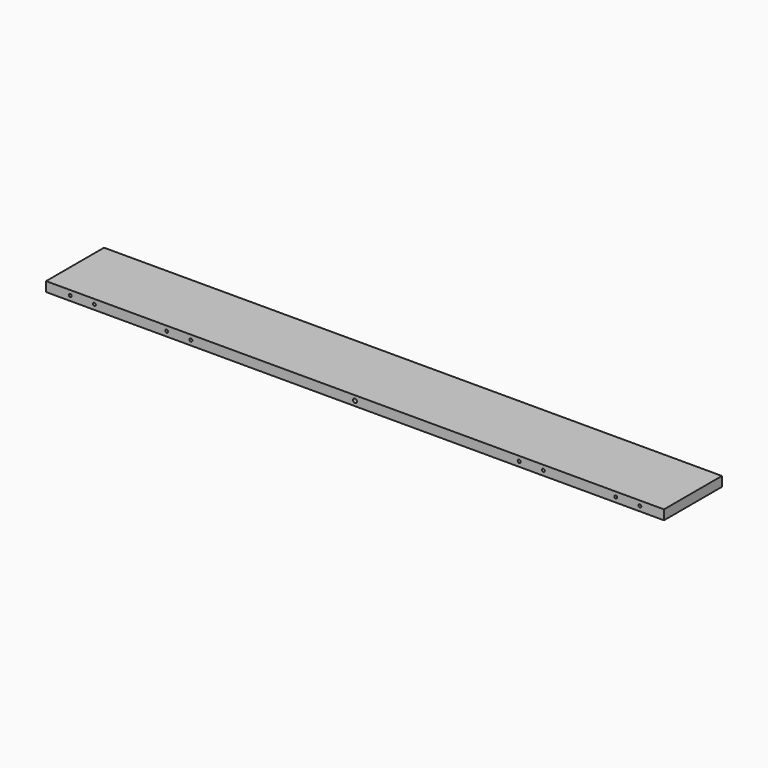
from build123d import *

# Parameters (mm, degrees)
F0_W     = 1280
F0_H     = 150
F1_DEPTH = 10
F3_D     = 6
F3_DEPTH = 25
F3_TIP   = 1.8025818571
F4_D     = 8
F4_DEPTH = 30
F4_TIP   = 2.4034424761


with BuildPart() as f1:
    # F0 (on Top) → F1 (new body, symmetric)
    with BuildSketch(Plane.XY):
        Rectangle(F0_W, F0_H)
    extrude(amount=F1_DEPTH, both=True)

    # F3
    with Locations(Plane.XZ.offset(75)):
        with Locations((-590, 0), (-540, 0), (-390, 0), (-340, 0), (340, 0), (390, 0), (540, 0), (590, 0)):
            Hole(F3_D / 2, depth=F3_DEPTH)
            with Locations((0, 0, -(F3_DEPTH + F3_TIP / 2))):  # 118° drill point
                Cone(0, F3_D / 2, F3_TIP, mode=Mode.SUBTRACT)

    # F4
    with Locations(Plane.XZ.offset(75)):
        with Locations((0, 0)):
            Hole(F4_D / 2, depth=F4_DEPTH)
            with Locations((0, 0, -(F4_DEPTH + F4_TIP / 2))):  # 118° drill point
                Cone(0, F4_D / 2, F4_TIP, mode=Mode.SUBTRACT)


solid = f1.part
